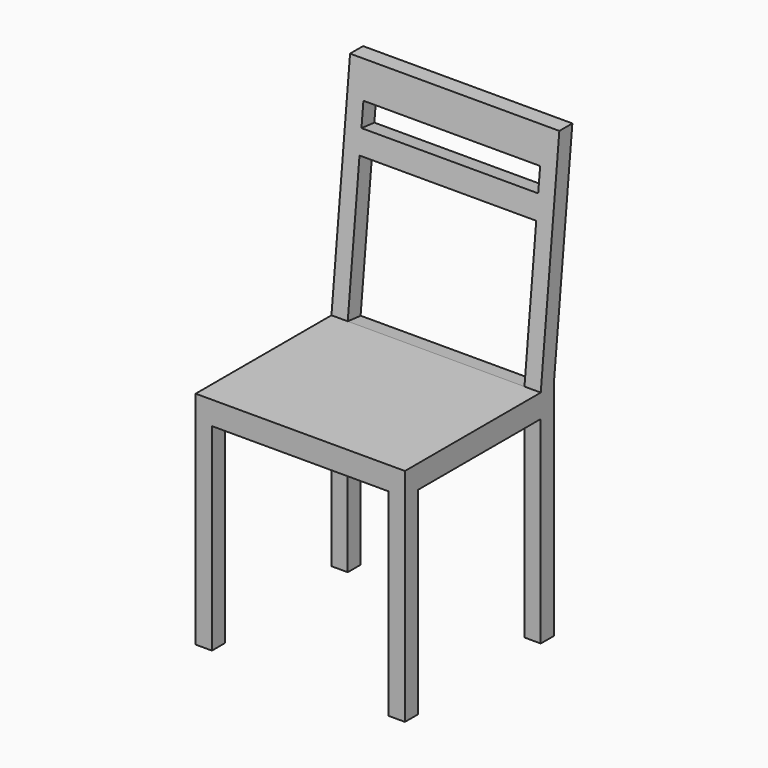
from build123d import *

# Parameters (mm, degrees)
F0_W     = 450
F0_H     = 450
F1_DEPTH = 950
F2_W     = 330
F2_H     = 425
F2_W_2   = 50
F2_H_2   = 50
F3_DEPTH = 450.001
F4_W     = 380
F4_H     = 425
F5_DEPTH = 450.001
F6_W     = 380
F6_H     = 50
F6_H_2   = 302.6243293636
F7_DEPTH = 134.2592361444


with BuildPart() as f1:
    # F0 (on Top) → F1 (new body)
    with BuildSketch(Plane.XY):
        Rectangle(F0_W, F0_H)
    extrude(amount=F1_DEPTH)

    # F2 (on face) → F3 (cut, through all)
    with BuildSketch(Plane.YZ.offset(225)):
        Polygon((-225, 475), (140, 475), (190, 950), (-225, 950), align=None)
        with Locations((-25, 212.5)):
            Rectangle(F2_W, F2_H)
        with Locations((200, 212.5)):
            Rectangle(F2_W_2, F2_H)
        Polygon((175, 475), (225, 475), (225, 950), align=None)
        with Locations((200, 450)):
            Rectangle(F2_W_2, F2_H_2)
    extrude(amount=-F3_DEPTH, mode=Mode.SUBTRACT)

    # F4 (on face) → F5 (cut, through all)
    with BuildSketch(Plane.XZ.offset(225)):
        with Locations((0, 212.5)):
            Rectangle(F4_W, F4_H)
    extrude(amount=-F5_DEPTH, mode=Mode.SUBTRACT)

    # F6 (on face) → F7 (cut, through all)
    with BuildSketch(Plane(origin=(0, 89.0136986301, -9.3698630137), x_dir=(1, 0, 0), z_dir=(0, -0.9945054529, 0.1046847845))):
        with Locations((0, 864.6702893338)):
            Rectangle(F6_W, F6_H)
        with Locations((0, 638.358124652)):
            Rectangle(F6_W, F6_H_2)
    extrude(amount=-F7_DEPTH, mode=Mode.SUBTRACT)


solid = f1.part
